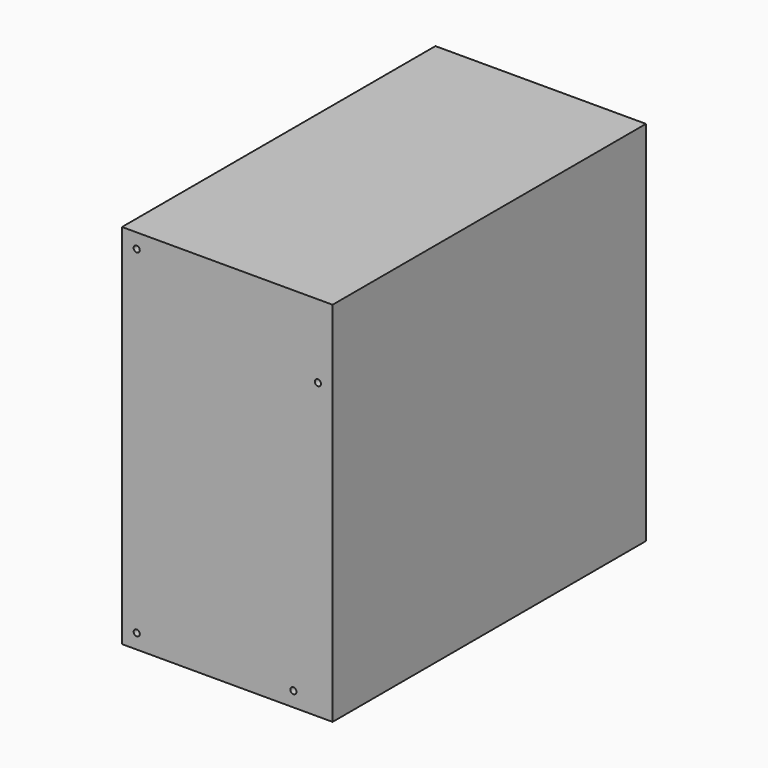
from build123d import *

# Parameters (mm, degrees)
F0_W     = 86
F0_H     = 150
F1_DEPTH = 160
F2_R     = 1.25
F3_DEPTH = 5


with BuildPart() as f1:
    # F0 (on Front) → F1 (new body)
    with BuildSketch(Plane.XZ):
        with Locations((43, 75)):
            Rectangle(F0_W, F0_H)
    extrude(amount=-F1_DEPTH)

    # F2 (on face) → F3 (cut)
    with BuildSketch(Plane.XZ):
        with Locations((6, 6)):
            Circle(F2_R)
        with Locations((70, 6)):
            Circle(F2_R)
        with Locations((80, 120)):
            Circle(F2_R)
        with Locations((6, 144)):
            Circle(F2_R)
    extrude(amount=-F3_DEPTH, mode=Mode.SUBTRACT)


solid = f1.part
